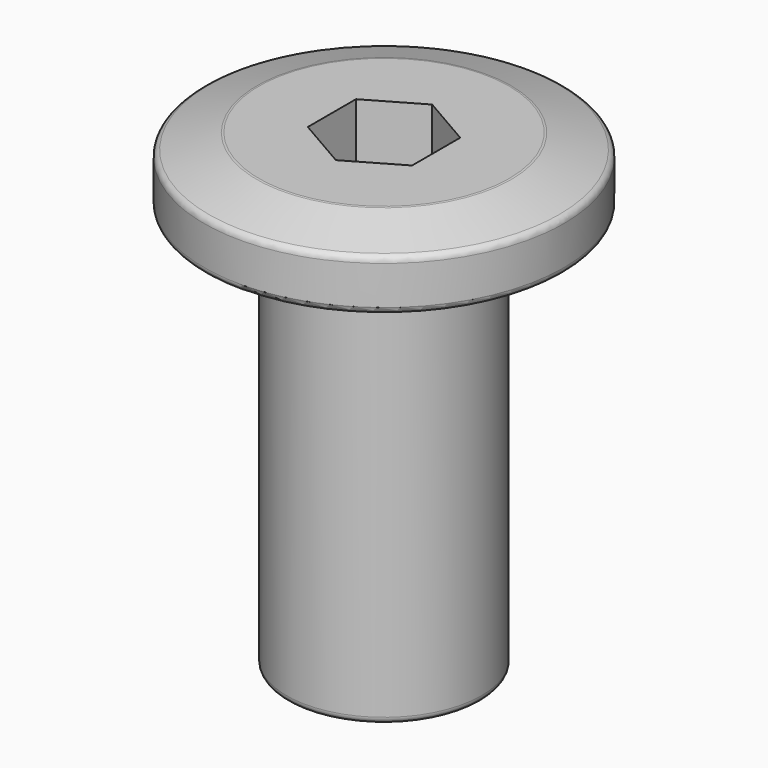
from build123d import *

# Parameters (mm, degrees)
SKETCH001_R     = 2.15
POCKET_DEPTH    = 9.2
POCKET001_DEPTH = 2.2
FILLET_R        = 0.2


with BuildPart() as part:
    # Sketch → Revolution (revolve)
    with BuildSketch(Plane.XZ):
        Polygon((0, -12), (0, 2), (3.75, 2), (5.35, 1.5), (5.35, 0), (2.9, 0), (2.9, -12), align=None)
    revolve(axis=Axis((0, 0, 0), (0, 0, 1)))

    # Sketch001 (on Face6 of Revolution) → Pocket (cut)
    with BuildSketch(Plane(origin=(0, 0, -12), x_dir=(1, 0, 0), z_dir=(0, 0, -1))):
        Circle(SKETCH001_R)
    extrude(amount=-POCKET_DEPTH, mode=Mode.SUBTRACT)

    # Sketch002 (on Face1 of Pocket) → Pocket001 (cut)
    with BuildSketch(Plane(origin=(0, 0, 2), x_dir=(-1, 0, 0), z_dir=(0, 0, 1))):
        Polygon((1.55, 0.894893), (0, 1.789786), (-1.55, 0.894893), (-1.55, -0.894893), (0, -1.789786), (1.55, -0.894893), align=None)
    extrude(amount=-POCKET001_DEPTH, mode=Mode.SUBTRACT)

    # Fillet
    fillet_edges = [part.edges().sort_by_distance(p)[0] for p in [
        (-5.35, 0, 0),
        (-5.35, 0, 1.5),
        (-3.75, 0, 2),
        (-2.9, 0, -12),
        (-2.9, 0, 0),
    ]]
    fillet(fillet_edges, radius=FILLET_R)


solid = part.part
